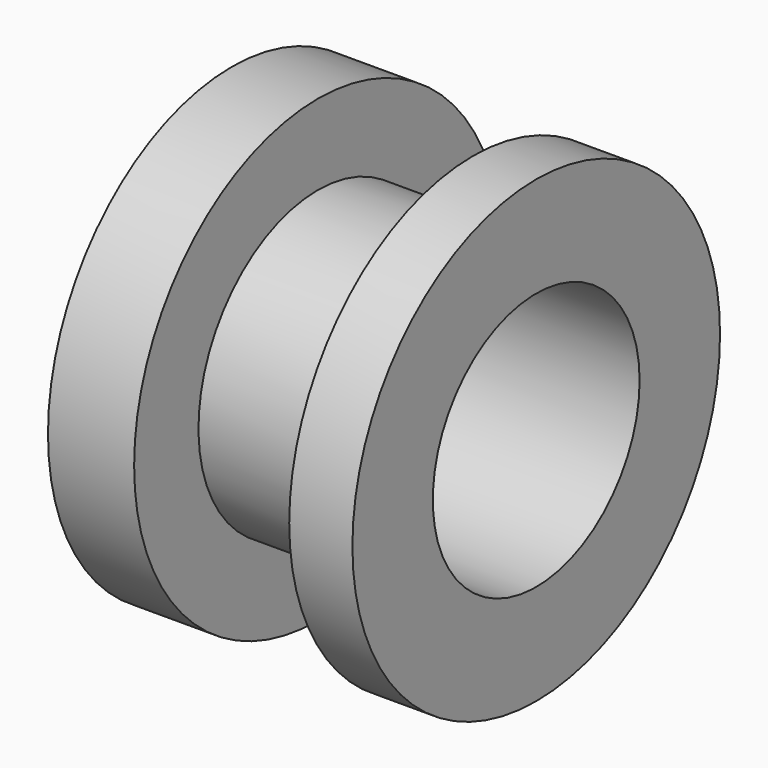
from build123d import *

# Parameters (mm, degrees)
F2_R     = 5.715
F3_DEPTH = 13.463


with BuildPart() as f1:
    # F0 (on Front) → F1 (revolve)
    with BuildSketch(Plane.XZ):
        Polygon((0, 10.16), (0, 0), (13.462, 0), (13.462, 10.16), (10.668, 10.16), (10.668, 6.604), (3.81, 6.604), (3.81, 10.16), align=None)
    revolve(axis=Axis((6.731, 0, 0), (-1, 0, 0)))

    # F2 (on Right) → F3 (cut, through all)
    with BuildSketch(Plane.YZ):
        Circle(F2_R)
    extrude(amount=F3_DEPTH, mode=Mode.SUBTRACT)


solid = f1.part
